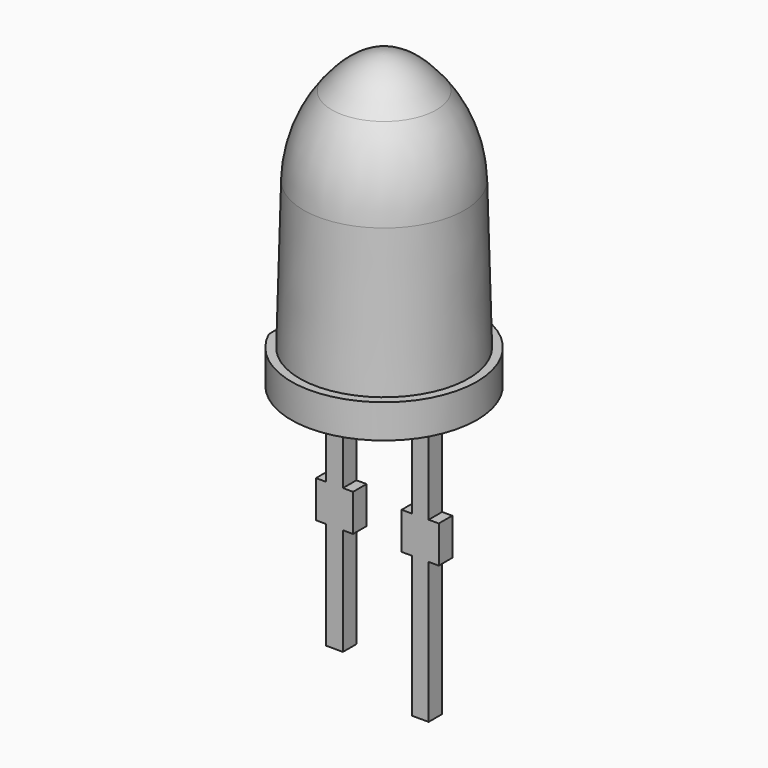
from build123d import *

# Parameters (mm, degrees)
PAD002_DEPTH            = 1
PAD003_DEPTH            = 0.25
BODY001_PLACEMENT_ANGLE = 90


with BuildPart() as part:
    # Sketch003 → Pad002 (new body)
    with BuildSketch(Plane.XY):
        with BuildLine():
            ThreePointArc((1.1456439239, -2.4999999999), (0, 2.75), (-1.1456439239, -2.4999999999))
            Line((-1.1456439239, -2.5), (1.1456439239, -2.5))
        make_face()
    extrude(amount=PAD002_DEPTH)

    # Sketch004 → Revolution001 (revolve)
    with BuildSketch(Plane.YZ):
        with BuildLine():
            add(Edge.make_bspline(
                [(-1.5494288107, 7.7), (-0.7747144053, 8.7), (0, 8.7)],
                knots=[-1.5494288107, -1.5494288107, -1.5494288107, 0, 0, 0], degree=2))
            Line((0, 8.7), (0, 1))
            Line((0, 1), (-2.5, 1))
            Line((-2.5, 1), (-2.3859606946, 5.3549853739))
            ThreePointArc((-2.3859606946, 5.3549853739), (-2.1547940918, 6.5942362206), (-1.5494288107, 7.7))
        make_face()
    revolve(axis=Axis((0, 0, 0), (0, 0, 1)))

    # Sketch005 → Pad003 (join, symmetric)
    with BuildSketch(Plane.YZ):
        Polygon((-1.52, 0), (-1.52, -2.9), (-1.82, -2.9), (-1.82, -4), (-1.52, -4), (-1.52, -7.175), (-1.02, -7.175), (-1.02, -4), (-0.72, -4), (-0.72, -2.9), (-1.02, -2.9), (-1.02, 0), align=None)
        Polygon((1.02, 0), (1.52, 0), (1.52, -2.9), (1.82, -2.9), (1.82, -4), (1.52, -4), (1.52, -8.175), (1.02, -8.175), (1.02, -4), (0.72, -4), (0.72, -2.9), (1.02, -2.9), align=None)
    extrude(amount=PAD003_DEPTH, both=True)


with BuildPart() as part_1:
    # Body001 placement: moved
    add(part.part.moved(Location((-3.81, 6.35, 4.445))).rotate(Axis((-3.81, 6.35, 4.445), (0, 0, -1)), BODY001_PLACEMENT_ANGLE))


solid = part_1.part
